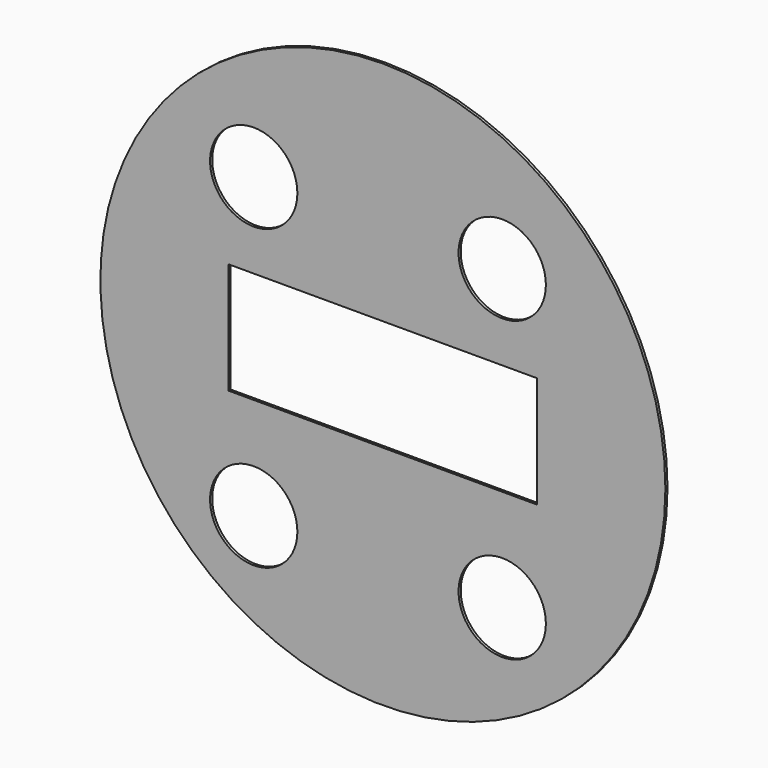
from build123d import *

# Parameters (mm, degrees)
F0_R     = 6.693729
F0_W     = 47.316594
F0_H     = 17.065056
F1_DEPTH = 0.4064


with BuildPart() as f1:
    # F0 (on Front) → F1 (new body)
    with BuildSketch(Plane.XZ):
        with BuildLine():
            ThreePointArc((0, 43.317308), (-30.629962, -30.629962), (43.317308, 0))
            ThreePointArc((43.317308, 0), (30.629962, 30.629962), (0, 43.317308))
        make_face()
        with Locations((-19.802901, -24.162007)):
            Circle(F0_R, mode=Mode.SUBTRACT)
        Rectangle(F0_W, F0_H, mode=Mode.SUBTRACT)
        with Locations((18.297099, -24.162008)):
            Circle(F0_R, mode=Mode.SUBTRACT)
        with Locations((-19.802901, 21.557992)):
            Circle(F0_R, mode=Mode.SUBTRACT)
        with Locations((18.297099, 21.55799)):
            Circle(F0_R, mode=Mode.SUBTRACT)
    extrude(amount=-F1_DEPTH)


solid = f1.part
